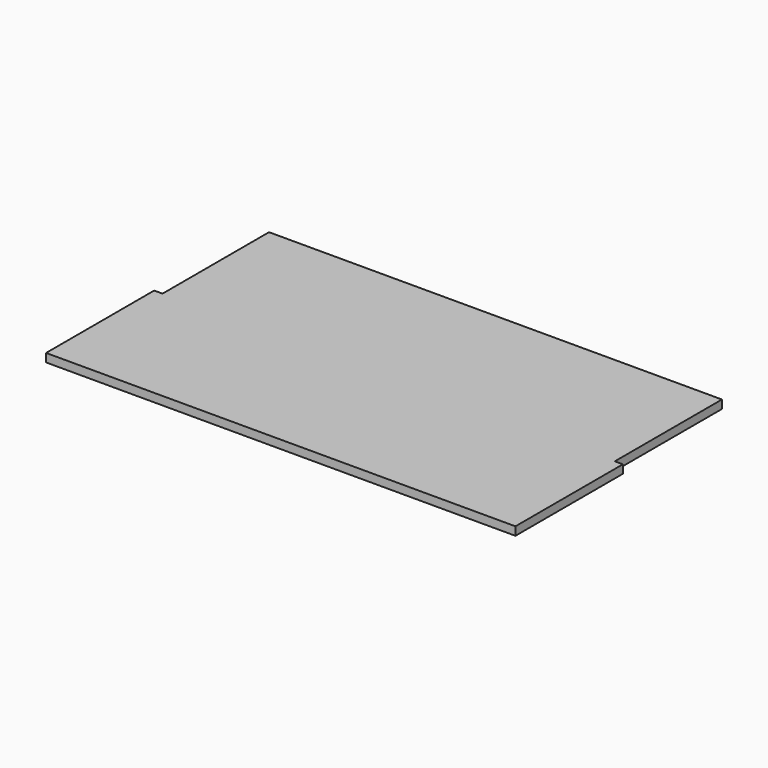
from build123d import *

# Parameters (mm, degrees)
F0_W     = 1066.8
F0_H     = 609.6
F1_DEPTH = 19.05
F2_W     = 19.05
F2_H     = 304.8
F3_DEPTH = 19.051


with BuildPart() as f1:
    # F0 (on Top) → F1 (new body)
    with BuildSketch(Plane.XY):
        with Locations((533.4, 304.8)):
            Rectangle(F0_W, F0_H)
    extrude(amount=-F1_DEPTH)

    # F2 (on Top) → F3 (cut, through all)
    with BuildSketch(Plane.XY):
        with Locations((9.525, 459.457381)):
            Rectangle(F2_W, F2_H)
        with Locations((1057.978569, 457.552625)):
            Rectangle(F2_W, F2_H)
    extrude(amount=-F3_DEPTH, mode=Mode.SUBTRACT)


solid = f1.part
